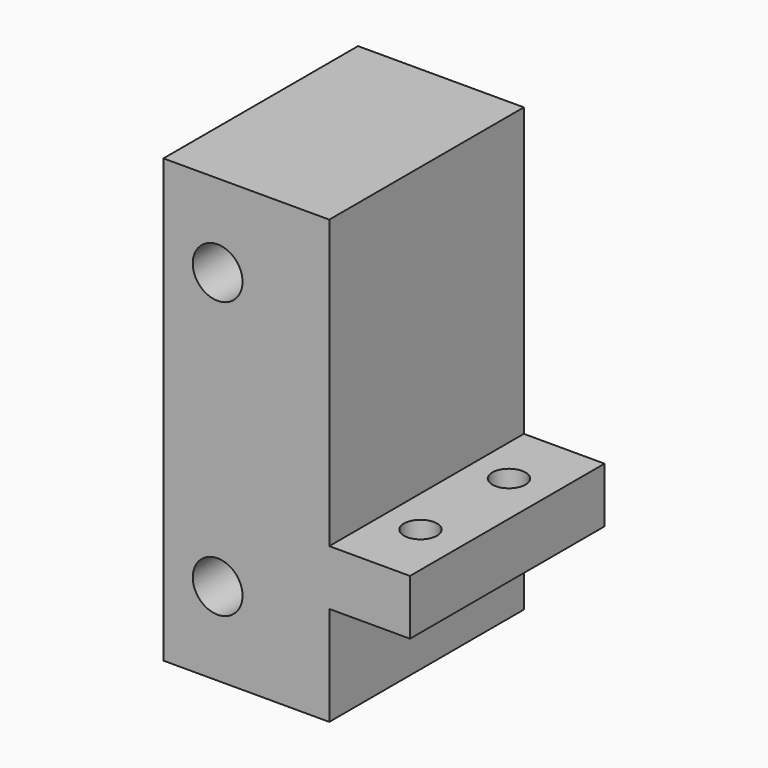
from build123d import *

# Parameters (mm, degrees)
PAD_DEPTH       = 11
SKETCH004_R     = 2.25
POCKET003_DEPTH = 25
SKETCH005_R     = 1.5
POCKET004_DEPTH = 5


with BuildPart() as part:
    # Sketch → Pad (new body, symmetric)
    with BuildSketch(Plane.XZ):
        Polygon((-1.5, 40), (-1.5, 0), (13.5, 0), (13.5, 9), (20.8, 9), (20.8, 14), (13.5, 14), (13.5, 40), align=None)
    extrude(amount=PAD_DEPTH, both=True)

    # Sketch004 (on Face10 of Pad) → Pocket003 (cut)
    with BuildSketch(Plane.XZ.offset(11)):
        with Locations((3.4, 32.5)):
            Circle(SKETCH004_R)
        with Locations((3.4, 7.5)):
            Circle(SKETCH004_R)
    extrude(amount=-POCKET003_DEPTH, mode=Mode.SUBTRACT)

    # Sketch005 (on Face9 of Pocket003) → Pocket004 (cut)
    with BuildSketch(Plane(origin=(0, 0, 9), x_dir=(1, 0, 0), z_dir=(0, 0, -1))):
        with Locations((16.95, 5)):
            Circle(SKETCH005_R)
        with Locations((16.95, -5)):
            Circle(SKETCH005_R)
    extrude(amount=-POCKET004_DEPTH, mode=Mode.SUBTRACT)


solid = part.part
